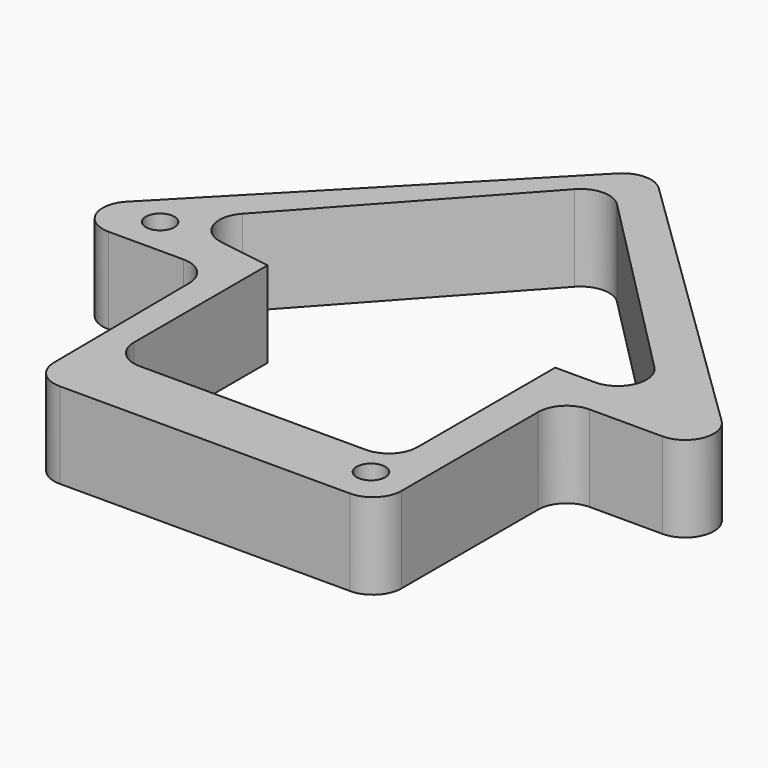
from build123d import *

# Parameters (mm, degrees)
F1_DEPTH = 19.05
F3_R     = 3.175
F4_DEPTH = 19.051
F6_DEPTH = 19.051


with BuildPart() as f1:
    # F0 (on Top) → F1 (new body)
    with BuildSketch(Plane.XY):
        with BuildLine():
            ThreePointArc((38.975515, -3.440669), (40.835387, 1.049459), (45.325515, 2.909331))
            Line((45.325515, 2.909331), (61.458508, 2.909331))
            ThreePointArc((61.458508, 2.909331), (67.341307, 6.868686), (65.888014, 13.809274))
            Line((65.888014, 13.809274), (2.81784, 75.209965))
            ThreePointArc((2.81784, 75.209965), (-1.696828, 77.009451), (-6.161608, 75.089527))
            Line((-6.161608, 75.089527), (-65.937009, 13.688836))
            ThreePointArc((-65.937009, 13.688836), (-67.237273, 6.790005), (-61.387065, 2.909331))
            Line((-61.387065, 2.909331), (-44.756616, 2.909331))
            ThreePointArc((-44.756616, 2.909331), (-40.285175, 1.068068), (-38.406835, -3.387924))
            Line((-38.406835, -3.387924), (-38.091605, -41.337081))
            ThreePointArc((-38.091605, -41.337081), (-36.213265, -45.793073), (-31.741824, -47.634335))
            Line((-31.741824, -47.634335), (32.625515, -47.634335))
            ThreePointArc((32.625515, -47.634335), (37.115643, -45.774463), (38.975515, -41.284335))
            Line((38.975515, -41.284335), (38.975515, -3.440669))
        make_face()
    extrude(amount=F1_DEPTH)

    # F3 (on face) → F4 (cut, through all)
    with BuildSketch(Plane.XY.offset(19.05)):
        with Locations((-56.677773, 11.351841)):
            Circle(F3_R)
        with Locations((30.4104, -39.055706)):
            Circle(F3_R)
    extrude(amount=-F4_DEPTH, mode=Mode.SUBTRACT)

    # F5 (on face) → F6 (cut, through all)
    with BuildSketch(Plane.XY.offset(19.05)):
        with BuildLine():
            Line((-8.287639, 65.80173), (-47.495655, 22.642287))
            ThreePointArc((-47.495655, 22.642287), (-48.781233, 16.252613), (-43.760738, 12.096261))
            Line((-43.760738, 12.096261), (-31.995475, 10.286895))
            Line((-31.995475, 10.286895), (-31.995475, -26.759769))
            ThreePointArc((-31.995475, -26.759769), (-30.135603, -31.249897), (-25.645475, -33.109769))
            Line((-25.645475, -33.109769), (24.530177, -33.109769))
            ThreePointArc((24.530177, -33.109769), (29.020305, -31.249897), (30.880177, -26.759769))
            Line((30.880177, -26.759769), (30.880177, 11.435365))
            Line((30.880177, 11.435365), (39.708046, 11.435365))
            ThreePointArc((39.708046, 11.435365), (45.568366, 15.340135), (44.221378, 22.252168))
            Line((44.221378, 22.252168), (0.925822, 65.998721))
            ThreePointArc((0.925822, 65.998721), (-3.723247, 67.880467), (-8.287639, 65.80173))
        make_face()
    extrude(amount=-F6_DEPTH, mode=Mode.SUBTRACT)


solid = f1.part
